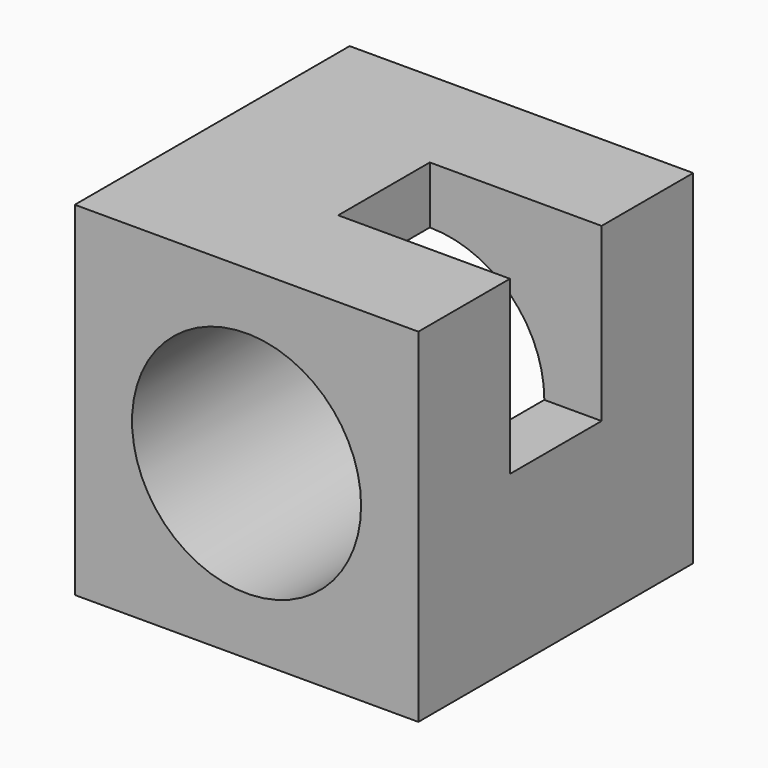
from build123d import *

# Parameters (mm, degrees)
F1_W     = 381
F1_H     = 381
F1_R     = 127
F2_DEPTH = 381
F3_W     = 190.5
F3_H     = 127
F4_DEPTH = 190.5


with BuildPart() as f2:
    # F1 (on face) → F2 (new body)
    with BuildSketch(Plane.XZ):
        Rectangle(F1_W, F1_H)
        Circle(F1_R, mode=Mode.SUBTRACT)
    extrude(amount=-F2_DEPTH)

    # F3 (on face) → F4 (cut)
    with BuildSketch(Plane.XY.offset(190.5)):
        with Locations((95.25, 190.5)):
            Rectangle(F3_W, F3_H)
    extrude(amount=-F4_DEPTH, mode=Mode.SUBTRACT)


solid = f2.part
